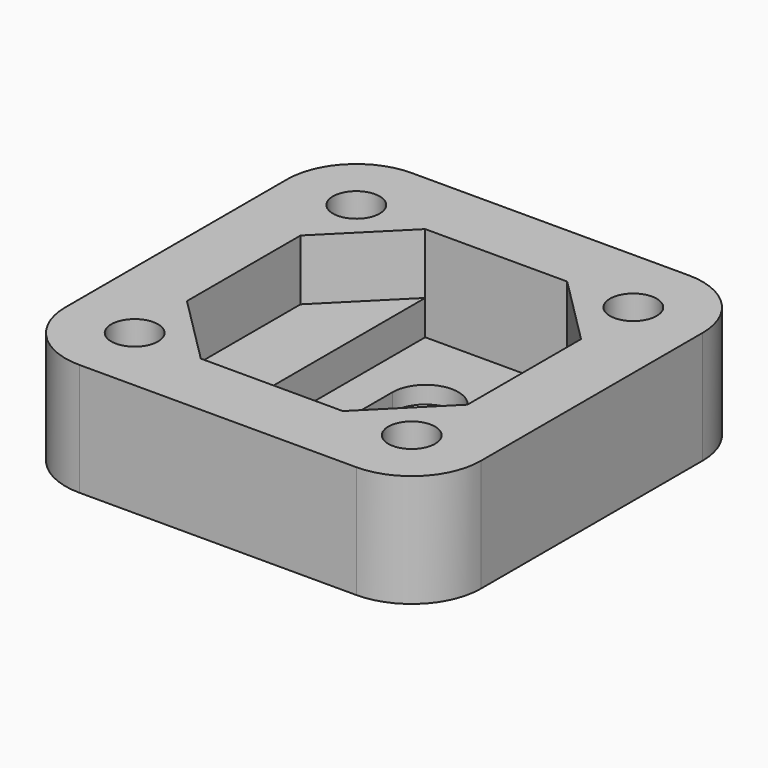
from build123d import *

# Parameters (mm, degrees)
F0_W      = 24
F0_H      = 24
F1_DEPTH  = 6.5
F4_R      = 4
F5_R      = 1.35
F6_DEPTH  = 6.501
F8_DEPTH  = 5.5
F9_DEPTH  = 6.501
F10_DEPTH = 3.5


with BuildPart() as f1:
    # F0 (on Top) → F1 (new body)
    with BuildSketch(Plane.XY):
        with Locations((12, 12)):
            Rectangle(F0_W, F0_H)
    extrude(amount=F1_DEPTH)

    # F4
    f4_edges = [f1.edges().sort_by_distance(p)[0] for p in [
        (0, 0, 3.25),
        (24, 0, 3.25),
        (24, 24, 3.25),
        (0, 24, 3.25),
    ]]
    fillet(f4_edges, radius=F4_R)

    # F5 (on face) → F6 (cut, through all)
    with BuildSketch(Plane.XY.offset(6.5)):
        with Locations((4, 4)):
            Circle(F5_R)
        with Locations((4, 20)):
            Circle(F5_R)
        with Locations((20, 4)):
            Circle(F5_R)
        with Locations((20, 20)):
            Circle(F5_R)
    extrude(amount=-F6_DEPTH, mode=Mode.SUBTRACT)

    # F7 (on face) → F8 (cut, through all)
    with BuildSketch(Plane.XY.offset(6.5)):
        Polygon((16.1, 3.9), (16.1, 12), (16.1, 20.1), (7.9, 20.1), (7.9, 12), (7.9, 3.9), align=None)
        with BuildLine():
            Line((10.1, 9), (10.1, 15))
            ThreePointArc((10.1, 15), (12, 16.9), (13.9, 15))
            Line((13.9, 15), (13.9, 9))
            ThreePointArc((13.9, 9), (12, 7.1), (10.1, 9))
        make_face(mode=Mode.SUBTRACT)
    extrude(amount=-F8_DEPTH, mode=Mode.SUBTRACT)

    # F7 (on face) → F9 (cut, through all)
    with BuildSketch(Plane.XY.offset(6.5)):
        with BuildLine():
            ThreePointArc((13.9, 15), (12, 16.9), (10.1, 15))
            Line((10.1, 15), (10.1, 9))
            ThreePointArc((10.1, 9), (12, 7.1), (13.9, 9))
            Line((13.9, 9), (13.9, 15))
        make_face()
    extrude(amount=-F9_DEPTH, mode=Mode.SUBTRACT)

    # F7 (on face) → F10 (cut, through all)
    with BuildSketch(Plane.XY.offset(6.5)):
        Polygon((7.9, 12), (7.9, 20.1), (3.9, 16.1), (3.9, 12), (3.9, 7.9), (7.9, 3.9), align=None)
        Polygon((16.1, 20.1), (16.1, 12), (16.1, 3.9), (20.1, 7.9), (20.1, 12), (20.1, 16.1), align=None)
    extrude(amount=-F10_DEPTH, mode=Mode.SUBTRACT)


solid = f1.part
